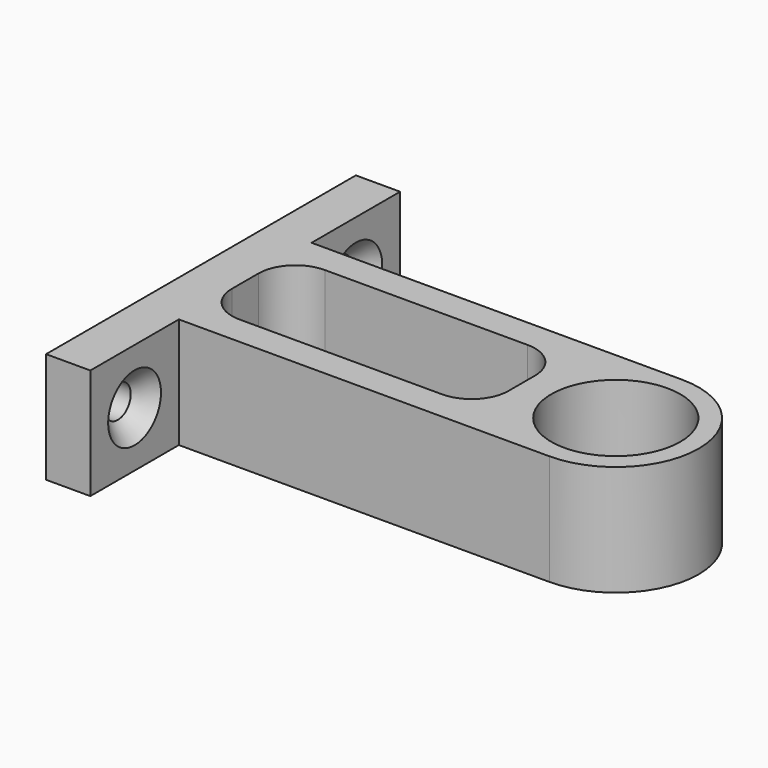
from build123d import *

# Parameters (mm, degrees)
F0_R                 = 8.75
F1_DEPTH             = 15
F4_D                 = 4.4
F4_CSINK_D           = 8.96
F4_CSINK_ANGLE       = 90
F4_ON_F3_D           = 4.4
F4_ON_F3_CSINK_D     = 8.96
F4_ON_F3_CSINK_ANGLE = 90
F5_W                 = 37.5
F5_H                 = 14.5
F6_DEPTH             = 25
F7_R                 = 5


with BuildPart() as f1:
    # F0 (on Top) → F1 (new body)
    with BuildSketch(Plane.XY):
        with BuildLine():
            Line((-50.25, -11.25), (0, -11.25))
            ThreePointArc((0, -11.25), (11.25, 0), (0, 11.25))
            Line((0, 11.25), (-50.25, 11.25))
            Line((-50.25, 11.25), (-50.25, 26.25))
            Line((-50.25, 26.25), (-56.25, 26.25))
            Line((-56.25, 26.25), (-56.25, -26.25))
            Line((-56.25, -26.25), (-50.25, -26.25))
            Line((-50.25, -26.25), (-50.25, -11.25))
        make_face()
        Circle(F0_R, mode=Mode.SUBTRACT)
    extrude(amount=F1_DEPTH)

    # F4 (through all)
    with Locations(Plane.YZ.offset(-50.25)):
        with Locations((-18.75, 7.5)):
            CounterSinkHole(F4_D / 2, F4_CSINK_D / 2, counter_sink_angle=F4_CSINK_ANGLE)

    # F4 on F3 (through all)
    with Locations(Plane.YZ.offset(-50.25)):
        with Locations((18.75, 7.5)):
            CounterSinkHole(F4_ON_F3_D / 2, F4_ON_F3_CSINK_D / 2, counter_sink_angle=F4_ON_F3_CSINK_ANGLE)

    # F5 (on face) → F6 (cut)
    with BuildSketch(Plane.XY.offset(15)):
        with Locations((-31.5, 0)):
            Rectangle(F5_W, F5_H)
    extrude(amount=-F6_DEPTH, mode=Mode.SUBTRACT)

    # F7
    f7_edges = [f1.edges().sort_by_distance(p)[0] for p in [
        (-50.25, 7.25, 7.5),
        (-50.25, -7.25, 7.5),
        (-12.75, 7.25, 7.5),
        (-12.75, -7.25, 7.5),
    ]]
    fillet(f7_edges, radius=F7_R)


solid = f1.part
